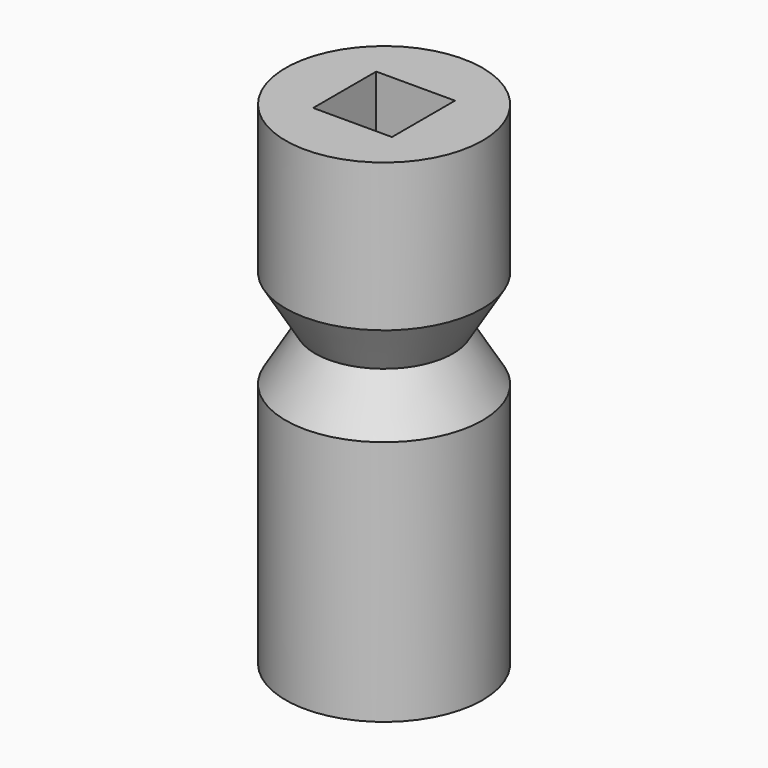
from build123d import *

# Parameters (mm, degrees)
F0_R     = 10
F1_DEPTH = 25
F2_W     = 8
F2_H     = 8
F3_DEPTH = 50.001
F7_R     = 7.5
F8_DEPTH = 20


with BuildPart() as f1:
    # F0 (on Top) → F1 (new body, symmetric)
    with BuildSketch(Plane.XY):
        Circle(F0_R)
    extrude(amount=F1_DEPTH, both=True)

    # F2 (on face) → F3 (cut, through all)
    with BuildSketch(Plane.XY.offset(25)):
        Rectangle(F2_W, F2_H)
    extrude(amount=-F3_DEPTH, mode=Mode.SUBTRACT)

    # F4 (on Front) → F6 (revolve, cut)
    with BuildSketch(Plane.XZ):
        Polygon((-10, 10), (-10, 0), (-7, 5), align=None)
    revolve(axis=Axis((0, 0, 10.121179), (0, 0, 1)), mode=Mode.SUBTRACT)

    # F7 (on face) → F8 (cut)
    with BuildSketch(Plane(origin=(0, 0, -25), x_dir=(1, 0, 0), z_dir=(0, 0, -1))):
        Circle(F7_R)
    extrude(amount=-F8_DEPTH, mode=Mode.SUBTRACT)


solid = f1.part
